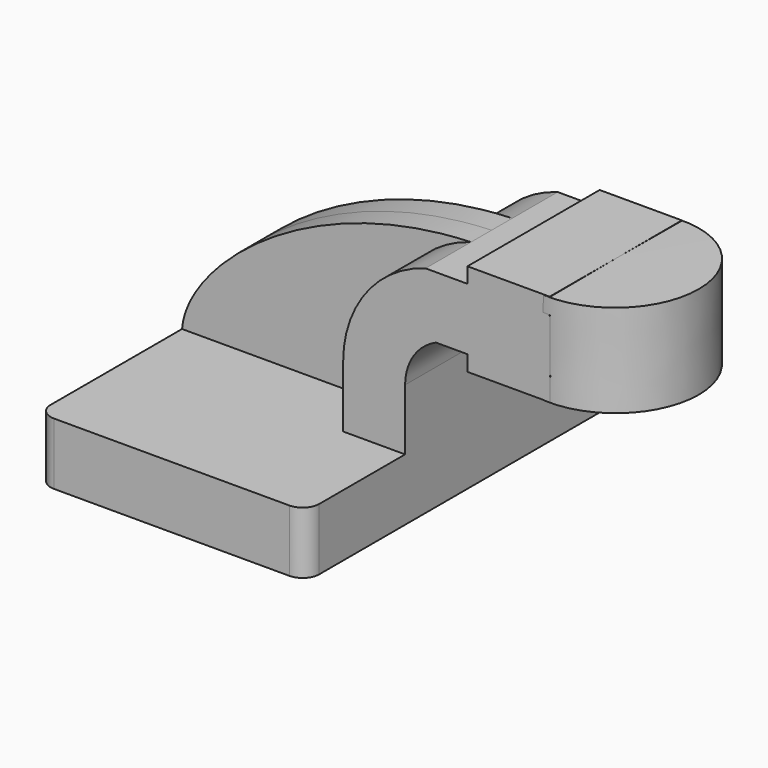
from build123d import *

# Parameters (mm, degrees)
F1_DEPTH = 63.5
F2_DEPTH = 25.4
F3_DEPTH = 7.9375
F5_R     = 5.08


with BuildPart() as f1:
    # F0 (on Front) → F1 (new body, symmetric)
    with BuildSketch(Plane.XZ):
        Polygon((41.275, -9.525), (41.275, 9.525), (22.225, 9.525), (-41.275, 9.525), (-41.275, -9.525), align=None)
    extrude(amount=F1_DEPTH, both=True)

    # F0 (on Front) → F2 (join, symmetric)
    with BuildSketch(Plane.XZ):
        with BuildLine():
            Line((22.225, 9.525), (41.275, 9.525))
            Line((41.275, 9.525), (41.275, 28.3433184846))
            ThreePointArc((41.275, 28.3433184846), (43.855889591, 37.0198531289), (50.7593783852, 42.8752))
            Line((50.7593783852, 42.8752), (60.4433172107, 42.8752))
            Line((60.4433172107, 42.8752), (60.4433172107, 61.9252))
            Line((60.4433172107, 61.9252), (47.5576666609, 61.9252))
            ThreePointArc((47.5576666609, 61.9252), (29.2683943534, 49.3759524511), (22.225, 28.3433184846))
            Line((22.225, 28.3433184846), (22.225, 9.525))
        make_face()
        Polygon((60.4433172107, 61.9252), (60.4433172107, 42.8752), (60.4433172107, 38.1), (85.8433172107, 38.1), (85.725, 66.675), (60.4433172107, 66.675), align=None)
    extrude(amount=F2_DEPTH, both=True)

    # F0 (on Front) → F3 (join, symmetric)
    with BuildSketch(Plane.XZ):
        with BuildLine():
            Line((-41.275, 9.525), (22.225, 9.525))
            Line((22.225, 9.525), (22.225, 28.3433184846))
            ThreePointArc((22.225, 28.3433184846), (29.2683943534, 49.3759524511), (47.5576666609, 61.9252))
            add(Edge.make_bspline(
                [(-41.275, 9.525), (-39.8741327226, 28.3073559403), (-3.5557583906, 60.0859336555), (47.5576666609, 61.9252)],
                knots=[0, 0, 0, 0, 103.1359473032, 103.1359473032, 103.1359473032, 103.1359473032], degree=3))
        make_face()
    extrude(amount=F3_DEPTH, both=True)

    # F5
    f5_edges = [f1.edges().sort_by_distance(p)[0] for p in [
        (-41.275, -63.5, 0),
        (41.275, -63.5, 0),
        (41.275, 63.5, 0),
        (-41.275, 63.5, 0),
    ]]
    fillet(f5_edges, radius=F5_R)


with BuildPart() as f4:
    # F0 (on Front) → F4 (revolve)
    with BuildSketch(Plane.XZ):
        Polygon((85.725, 66.675), (85.8433172107, 38.1), (111.2433172107, 38.1), (111.2433172107, 66.675), align=None)
    revolve(axis=Axis((85.7841586053, 0, 52.3875), (-0.0041405493, 0, 0.9999914279)))


solid = Compound([f1.part, f4.part])
